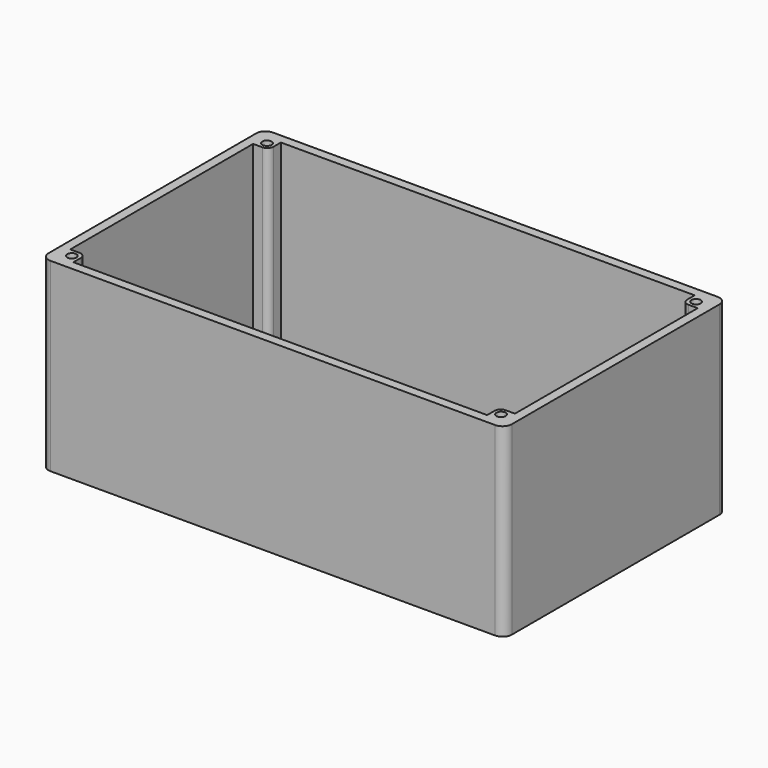
from build123d import *

# Parameters (mm, degrees)
F0_W     = 144
F0_H     = 84
F1_DEPTH = 3
F0_W_2   = 150
F0_H_2   = 90
F2_DEPTH = 60
F3_R     = 3
F4_W     = 5
F4_H     = 5
F5_DEPTH = 57
F6_R     = 1.5
F7_DEPTH = 30
F8_R     = 2


with BuildPart() as f1:
    # F0 (on Top) → F1 (new body)
    with BuildSketch(Plane.XY):
        with Locations((4.453997, -2.561509)):
            Rectangle(F0_W, F0_H)
    extrude(amount=F1_DEPTH)

    # F0 (on Top) → F2 (join)
    with BuildSketch(Plane.XY):
        with Locations((4.453997, -2.561509)):
            Rectangle(F0_W_2, F0_H_2)
        with Locations((4.453997, -2.561509)):
            Rectangle(F0_W, F0_H, mode=Mode.SUBTRACT)
    extrude(amount=F2_DEPTH)

    # F3
    f3_edges = [f1.edges().sort_by_distance(p)[0] for p in [
        (-70.546003, 42.438491, 30),
        (-70.546003, -47.561509, 30),
        (79.453997, -47.561509, 30),
        (79.453997, 42.438491, 30),
    ]]
    fillet(f3_edges, radius=F3_R)

    # F4 (on face) → F5 (join)
    with BuildSketch(Plane.XY.offset(3)):
        with Locations((-65.046003, 36.938491)):
            Rectangle(F4_W, F4_H)
        with Locations((-65.046003, -42.061509)):
            Rectangle(F4_W, F4_H)
        with Locations((73.953997, 36.938491)):
            Rectangle(F4_W, F4_H)
        with Locations((73.953997, -42.061509)):
            Rectangle(F4_W, F4_H)
    extrude(amount=F5_DEPTH)

    # F6 (on face) → F7 (cut)
    with BuildSketch(Plane.XY.offset(60)):
        with Locations((-65.046003, 36.938491)):
            Circle(F6_R)
        with Locations((-65.046003, -42.061509)):
            Circle(F6_R)
        with Locations((73.953997, -42.061509)):
            Circle(F6_R)
        with Locations((73.953997, 36.938491)):
            Circle(F6_R)
    extrude(amount=-F7_DEPTH, mode=Mode.SUBTRACT)

    # F8
    f8_edges = [f1.edges().sort_by_distance(p)[0] for p in [
        (-62.546003, 34.438491, 31.5),
        (71.453997, 34.438491, 31.5),
        (71.453997, -39.561509, 31.5),
        (-62.546003, -39.561509, 31.5),
    ]]
    fillet(f8_edges, radius=F8_R)


solid = f1.part
